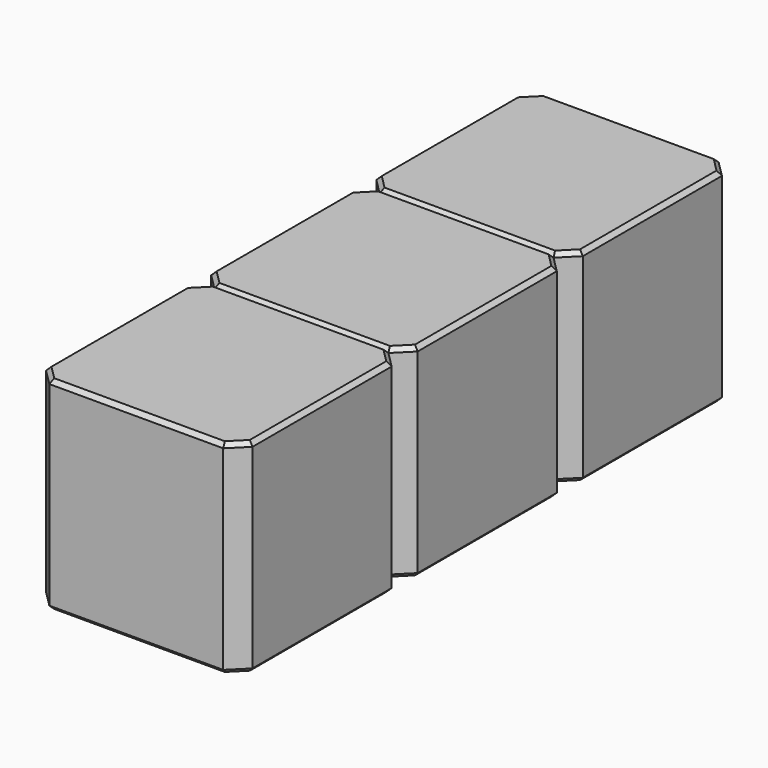
from build123d import *

# Parameters (mm, degrees)
SKETCH208_W     = 2.54
SKETCH208_H     = 2.54
PAD063_DEPTH    = 2.5
CHAMFER014_SIZE = 0.2
CHAMFER013_SIZE = 0.05
ARRAY_Y_COUNT   = 3
ARRAY_Y_PITCH   = 2.54


with BuildPart() as array:
    # Sketch208 → Pad063 (new body)
    with BuildSketch(Plane.XY):
        Rectangle(SKETCH208_W, SKETCH208_H)
    extrude(amount=PAD063_DEPTH)

    # Chamfer014
    chamfer014_edges = [array.edges().sort_by_distance(p)[0] for p in [
        (1.27, -1.27, 1.25),
        (-1.27, -1.27, 1.25),
        (1.27, 1.27, 1.25),
        (-1.27, 1.27, 1.25),
    ]]
    chamfer(chamfer014_edges, length=CHAMFER014_SIZE)

    # Chamfer013
    chamfer013_edges = [array.edges().sort_by_distance(p)[0] for p in [
        (0, -1.27, 2.5),
        (-1.17, -1.17, 2.5),
        (1.17, -1.17, 2.5),
        (-1.27, 0, 2.5),
        (1.27, 0, 2.5),
        (-1.17, 1.17, 2.5),
        (1.17, 1.17, 2.5),
        (0, 1.27, 2.5),
        (0, -1.27, 0),
        (-1.17, -1.17, 0),
        (1.17, -1.17, 0),
        (-1.27, 0, 0),
        (1.27, 0, 0),
        (-1.17, 1.17, 0),
        (1.17, 1.17, 0),
        (0, 1.27, 0),
    ]]
    chamfer(chamfer013_edges, length=CHAMFER013_SIZE)


with BuildPart() as array_copy1:
    # Array Y: instance of Array
    add(array.part.moved(Location(Vector(0, 1, 0) * (1 * ARRAY_Y_PITCH))))


with BuildPart() as array_copy2:
    # Array Y: instance of Array
    add(array.part.moved(Location(Vector(0, 1, 0) * (2 * ARRAY_Y_PITCH))))


solid = Compound([array.part, array_copy1.part, array_copy2.part])
